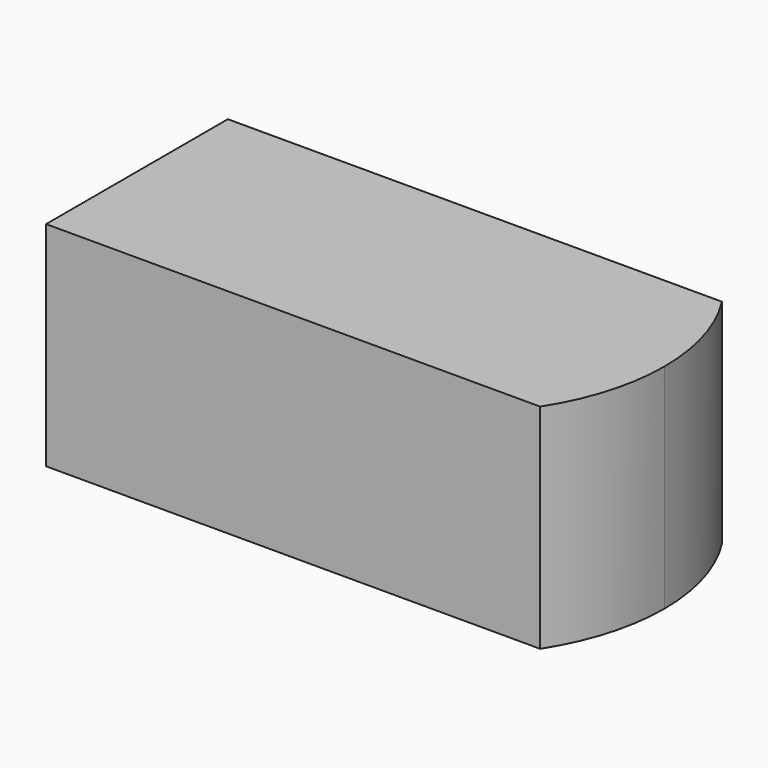
from build123d import *

# Parameters (mm, degrees)
F0_W     = 157.873229
F0_H     = 63.821092
F1_DEPTH = 34
F3_DEPTH = 63.821092


with BuildPart() as f1:
    # F0 (on Front) → F1 (new body, symmetric)
    with BuildSketch(Plane.XZ):
        with Locations((19.16913, 67.018941)):
            Rectangle(F0_W, F0_H)
    extrude(amount=F1_DEPTH, both=True)

    # F2 (on face) → F3 (intersect, through all)
    with BuildSketch(Plane.XY.offset(98.929487)):
        with BuildLine():
            Line((-59.767485, 34), (-59.767485, -34))
            Line((-59.767485, -34), (88.105744, -34))
            ThreePointArc((88.105744, -34), (95.553897, -17.720045), (98.105744, 0))
            ThreePointArc((98.105744, 0), (95.553897, 17.720045), (88.105744, 34))
            Line((88.105744, 34), (-59.767485, 34))
        make_face()
    extrude(amount=-F3_DEPTH, mode=Mode.INTERSECT)


solid = f1.part
